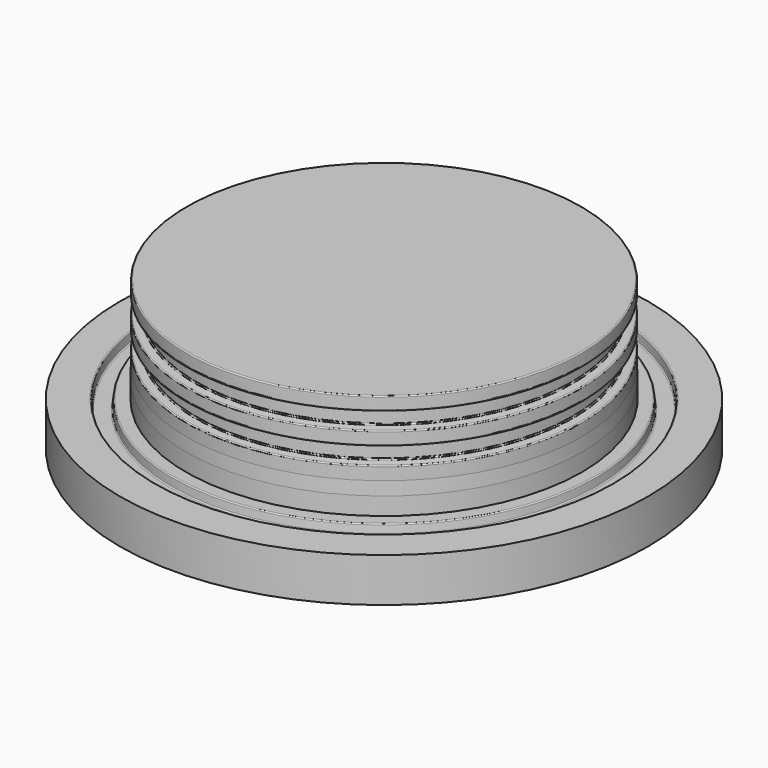
from build123d import *

# Parameters (mm, degrees)
F2_R = 0.25


with BuildPart() as f1:
    # F0 (on Front) → F1 (revolve)
    with BuildSketch(Plane.XZ):
        Polygon((0, 33.934905), (0, 0), (60, 0), (60, 10), (51.967452, 10), (51.783726, 7.9), (48.183726, 7.9), (48, 10), (45, 10), (45, 14), (44.9, 17), (44.9, 20), (42.8, 20.183726), (42.8, 23.783726), (44.9, 23.967452), (44.9, 26.967452), (42.8, 27.151179), (42.8, 30.751179), (44.9, 30.934905), (44.9, 33.934905), align=None)
    revolve(axis=Axis((0, 0, 16.967452), (0, 0, -1)))

    # F2
    f2_edges = [f1.edges().sort_by_distance(p)[0] for p in [
        (-44.9, 0, 30.934905),
        (-44.9, 0, 26.967452),
        (-44.9, 0, 23.967452),
        (-44.9, 0, 20),
        (-42.8, 0, 30.751179),
        (-42.8, 0, 23.783726),
        (-42.8, 0, 27.151179),
        (-42.8, 0, 20.183726),
        (-48.183726, 0, 7.9),
        (-51.783726, 0, 7.9),
        (-51.967452, 0, 10),
        (-48, 0, 10),
        (-44.9, 0, 33.934905),
    ]]
    fillet(f2_edges, radius=F2_R)


solid = f1.part
